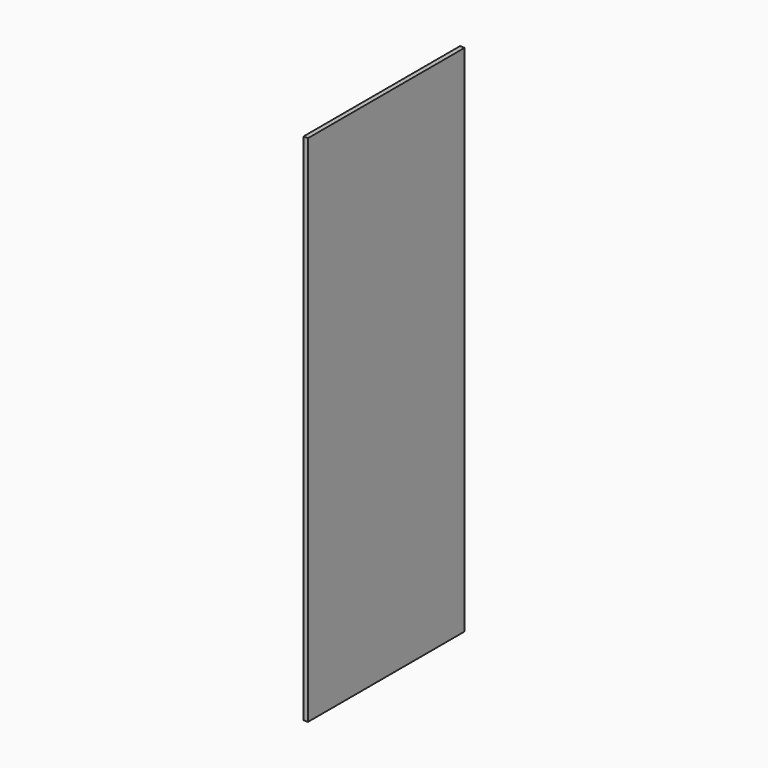
from build123d import *

# Parameters (mm, degrees)
F3_W     = 19.05
F3_H     = 812.8
F4_DEPTH = 2133.6


with BuildPart() as f4:
    # F3 (on face) → F4 (new body)
    with BuildSketch(Plane.XY):
        with Locations((1127.125, 406.4)):
            Rectangle(F3_W, F3_H)
    extrude(amount=F4_DEPTH)


solid = f4.part
